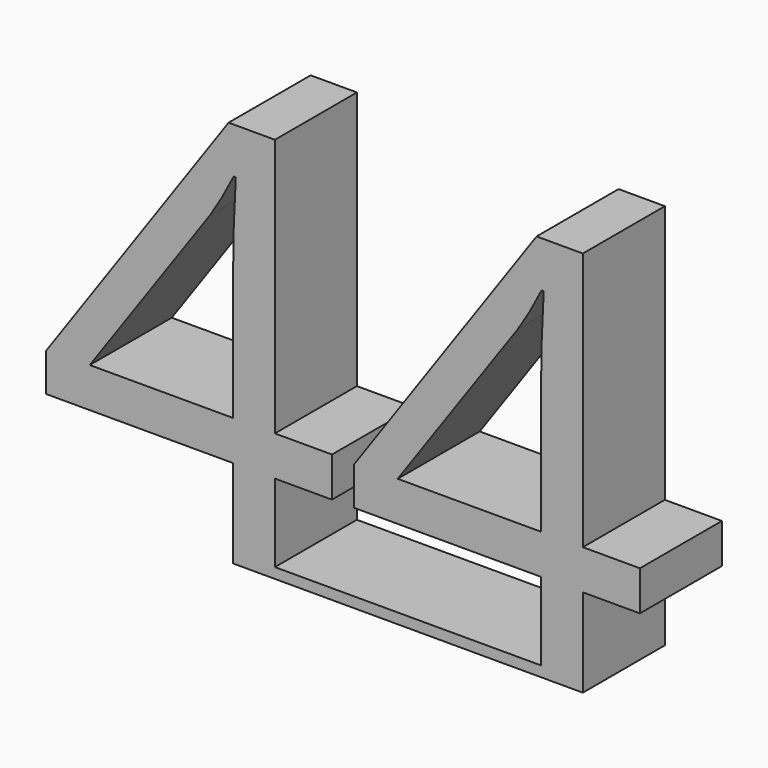
from build123d import *

# Parameters (mm, degrees)
F0_W     = 0.0066861176
F0_H     = 1.2904889882
F0_W_2   = 32.9669154744
F0_W_3   = 0.0352981806
F1_DEPTH = 12.7


with BuildPart() as f1:
    # F0 (on Front) → F1 (new body)
    with BuildSketch(Plane.XZ):
        with Locations((-3.0995408706, -47.3976228386)):
            Rectangle(F0_W, F0_H)
        Polygon((-8.27790464, -48.0428673327), (-3.1028839294, -48.0428673327), (-3.1028839294, -46.7523783445), (-3.0961978118, -46.7523783445), (-3.0961978118, -37.0955993858), (3.972609491, -37.0955993858), (3.972609491, -32.1745417944), (-3.0961978118, -32.1745417944), (-3.0961978118, -0.1459635726), (-8.8304810221, -0.1459635726), (-31.4444088096, -32.3726352144), (-31.4444088096, -37.0955993858), (-8.27790464, -37.0955993858), align=None)
        with BuildLine():
            Line((-8.27790464, -16.3374941646), (-8.27790464, -32.1745417944))
            Line((-8.27790464, -32.1745417944), (-26.033330653, -32.1745417944))
            Line((-26.033330653, -32.1745417944), (-11.1450462452, -10.9993977943))
            add(Edge.make_bspline(
                [(-8.2049228537, -5.8176909661), (-9.7688182747, -8.945481808), (-11.1450462452, -10.9993977943)],
                knots=[0, 0, 0, 1, 1, 1], degree=2))
            Line((-8.2049228537, -5.8176909661), (-7.9442736169, -5.8176909661))
            add(Edge.make_bspline(
                [(-8.27790464, -16.3374941646), (-8.27790464, -11.67708581), (-7.9442736169, -5.8176909661)],
                knots=[0, 0, 0, 1, 1, 1], degree=2))
        make_face(mode=Mode.SUBTRACT)
        with Locations((13.3872599254, -47.3976228386)):
            Rectangle(F0_W_2, F0_H)
        with Locations((29.8883667529, -47.3976228386)):
            Rectangle(F0_W_3, F0_H)
        Polygon((29.9060158432, -46.7523783445), (29.9060158432, -48.0428673327), (35.0524244908, -48.0428673327), (35.0524244908, -37.0955993858), (42.1212317936, -37.0955993858), (42.1212317936, -32.1745417944), (35.0524244908, -32.1745417944), (35.0524244908, -0.1459635726), (29.3181412805, -0.1459635726), (6.704213493, -32.3726352144), (6.704213493, -37.0955993858), (29.8707176626, -37.0955993858), (29.8707176626, -46.7523783445), align=None)
        with BuildLine():
            Line((29.8707176626, -16.3374941646), (29.8707176626, -32.1745417944))
            Line((29.8707176626, -32.1745417944), (12.1152916496, -32.1745417944))
            Line((12.1152916496, -32.1745417944), (27.0035760574, -10.9993977943))
            add(Edge.make_bspline(
                [(29.9436994489, -5.8176909661), (28.3798040279, -8.945481808), (27.0035760574, -10.9993977943)],
                knots=[0, 0, 0, 1, 1, 1], degree=2))
            Line((29.9436994489, -5.8176909661), (30.2043486857, -5.8176909661))
            add(Edge.make_bspline(
                [(29.8707176626, -16.3374941646), (29.8707176626, -11.67708581), (30.2043486857, -5.8176909661)],
                knots=[0, 0, 0, 1, 1, 1], degree=2))
        make_face(mode=Mode.SUBTRACT)
    extrude(amount=F1_DEPTH)


solid = f1.part
